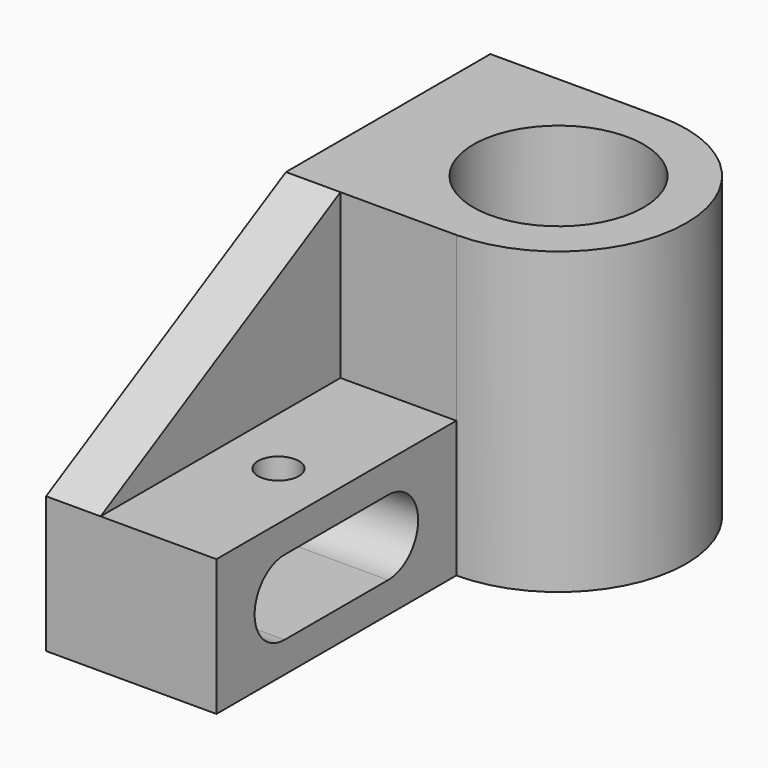
from build123d import *

# Parameters (mm, degrees)
F0_R     = 25
F1_DEPTH = 88
F2_W     = 88
F2_H     = 40
F3_DEPTH = 50
F5_DEPTH = 16
F6_R     = 6
F7_DEPTH = 9


with BuildPart() as f1:
    # F0 (on Top) → F1 (new body)
    with BuildSketch(Plane.XY):
        with BuildLine():
            Line((0, 75), (0, 0))
            Line((0, 0), (50, 0))
            ThreePointArc((50, 0), (87.5, 37.5), (50, 75))
            Line((50, 75), (0, 75))
        make_face()
        with Locations((50, 37.5)):
            Circle(F0_R, mode=Mode.SUBTRACT)
    extrude(amount=F1_DEPTH)

    # F2 (on Right) → F3 (join)
    with BuildSketch(Plane.YZ):
        with Locations((-44, 20)):
            Rectangle(F2_W, F2_H)
        with BuildLine():
            ThreePointArc((-25, 31), (-14, 20), (-25, 9))
            Line((-25, 9), (-63, 9))
            ThreePointArc((-63, 9), (-74, 20), (-63, 31))
            Line((-63, 31), (-25, 31))
        make_face(mode=Mode.SUBTRACT)
    extrude(amount=F3_DEPTH)

    # F4 (on Right) → F5 (join)
    with BuildSketch(Plane.YZ):
        Polygon((-88, 40), (0, 40), (0, 88), align=None)
    extrude(amount=F5_DEPTH)

    # F6 (on face) → F7 (cut, through all)
    with BuildSketch(Plane.XY.offset(40)):
        with Locations((33, -44)):
            Circle(F6_R)
    extrude(amount=-F7_DEPTH, mode=Mode.SUBTRACT)


solid = f1.part
